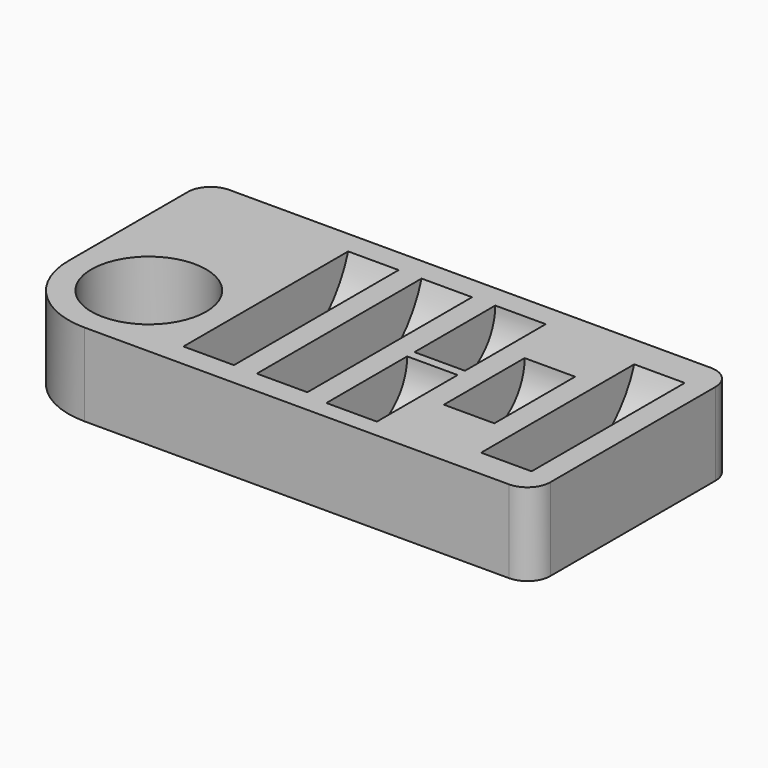
from build123d import *

# Parameters (mm, degrees)
F0_R     = 12.5
F1_DEPTH = 25
F2_W     = 11
F2_H     = 23.5
F4_W     = 147.382453084
F4_H     = 22.0085635483
F5_DEPTH = 55.001
F6_W     = 11
F6_H     = 11
F11_W    = 11
F11_H    = 22


with BuildPart() as f1:
    # F0 (on Top) → F1 (new body)
    with BuildSketch(Plane.XY):
        with BuildLine():
            ThreePointArc((0, 17.5), (5.1256313292, 5.1256313292), (17.5, 0))
            Line((17.5, 0), (110, 0))
            ThreePointArc((110, 0), (113.5355339059, 1.4644660941), (115, 5))
            Line((115, 5), (115, 50))
            ThreePointArc((115, 50), (113.5355339059, 53.5355339059), (110, 55))
            Line((110, 55), (5, 55))
            ThreePointArc((5, 55), (1.4644660941, 53.5355339059), (0, 50))
            Line((0, 50), (0, 17.5))
        make_face()
        with Locations((17.5, 17.5)):
            Circle(F0_R, mode=Mode.SUBTRACT)
    extrude(amount=F1_DEPTH)

    # F2 (on face) → F3 (revolve, cut)
    with BuildSketch(Plane.XY.offset(25)):
        with Locations((40.5, 15.75)):
            Rectangle(F2_W, F2_H)
        with Locations((56.5, 15.75)):
            Rectangle(F2_W, F2_H)
    revolve(axis=Axis((40.5, 27.5, 25), (1, 0, 0)), mode=Mode.SUBTRACT)

    # F4 (on face) → F5 (cut, through all)
    with BuildSketch(Plane.XZ):
        with Locations((73.691226542, 29.0042817742)):
            Rectangle(F4_W, F4_H)
    extrude(amount=-F5_DEPTH, mode=Mode.SUBTRACT)

    # F6 (on face) → F7 (revolve, cut)
    with BuildSketch(Plane.XY.offset(18)):
        with Locations((72.5, 9.5)):
            Rectangle(F6_W, F6_H)
    revolve(axis=Axis((72.5, 15, 18), (1, 0, 0)), mode=Mode.SUBTRACT)

    # F6 (on face) → F8 (revolve, cut)
    with BuildSketch(Plane.XY.offset(18)):
        with Locations((88.5, 21.5)):
            Rectangle(F6_W, F6_H)
    revolve(axis=Axis((88.5, 27, 18), (1, 0, 0)), mode=Mode.SUBTRACT)

    # F6 (on face) → F9 (revolve, cut)
    with BuildSketch(Plane.XY.offset(18)):
        with Locations((72.5, 44.5)):
            Rectangle(F6_W, F6_H)
    revolve(axis=Axis((72.5, 39, 18), (1, 0, 0)), mode=Mode.SUBTRACT)

    # F11 (on offset) → F12 (revolve, cut)
    with BuildSketch(Plane.XY.offset(25)):
        with Locations((104.5, 16)):
            Rectangle(F11_W, F11_H)
    revolve(axis=Axis((104.5, 27, 25), (1, 0, 0)), mode=Mode.SUBTRACT)


solid = f1.part
